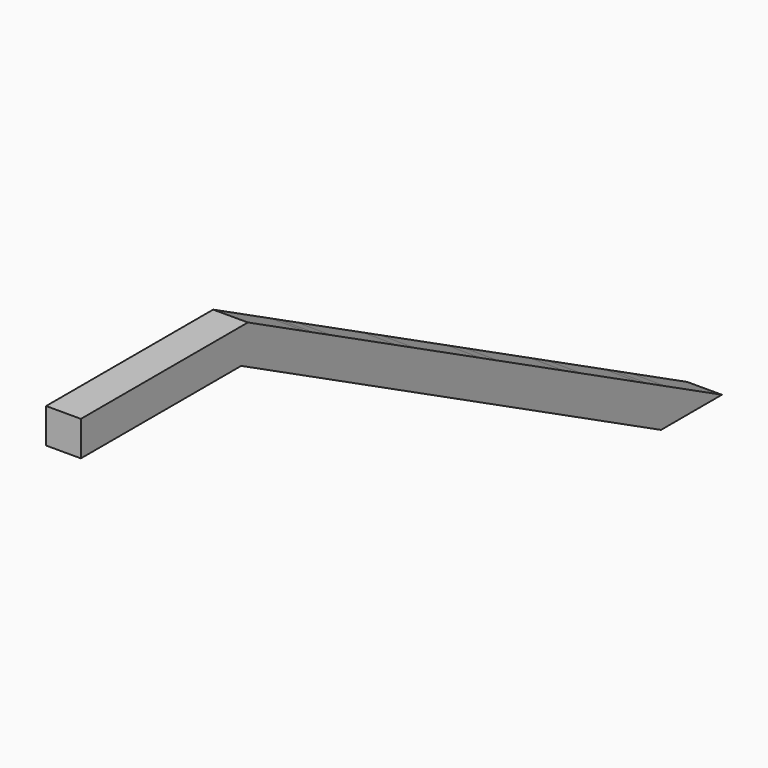
from build123d import *

# Parameters (mm, degrees)
F1_DEPTH = 101.6


with BuildPart() as f1:
    # F0 (on Right) → F1 (new body)
    with BuildSketch(Plane.YZ):
        Polygon((561.29576, 313.291845), (-48.30424, 313.291845), (-48.30424, 211.691845), (536.716133, 211.691845), (2068.830831, -575.708155), (2291.102677, -575.708155), (2085.29576, -469.937767), (2021.611301, -437.208401), (1987.724537, -419.79297), (1780.49576, -313.291845), (1716.811301, -280.562478), (1475.69576, -156.645922), (1412.011301, -123.916556), (1170.89576, 0), (1107.211301, 32.729366), (866.09576, 156.645922), (802.411301, 189.375289), (772.271858, 204.864858), align=None)
        Polygon((561.29576, 313.291845), (-48.30424, 313.291845), (-48.30424, 211.691845), (536.716133, 211.691845), (2068.830831, -575.708155), (2291.102677, -575.708155), (2085.29576, -469.937767), (2021.611301, -437.208401), (1987.724537, -419.79297), (1780.49576, -313.291845), (1716.811301, -280.562478), (1475.69576, -156.645922), (1412.011301, -123.916556), (1170.89576, 0), (1107.211301, 32.729366), (866.09576, 156.645922), (802.411301, 189.375289), (772.271858, 204.864858), align=None)
    extrude(amount=F1_DEPTH)


solid = f1.part
